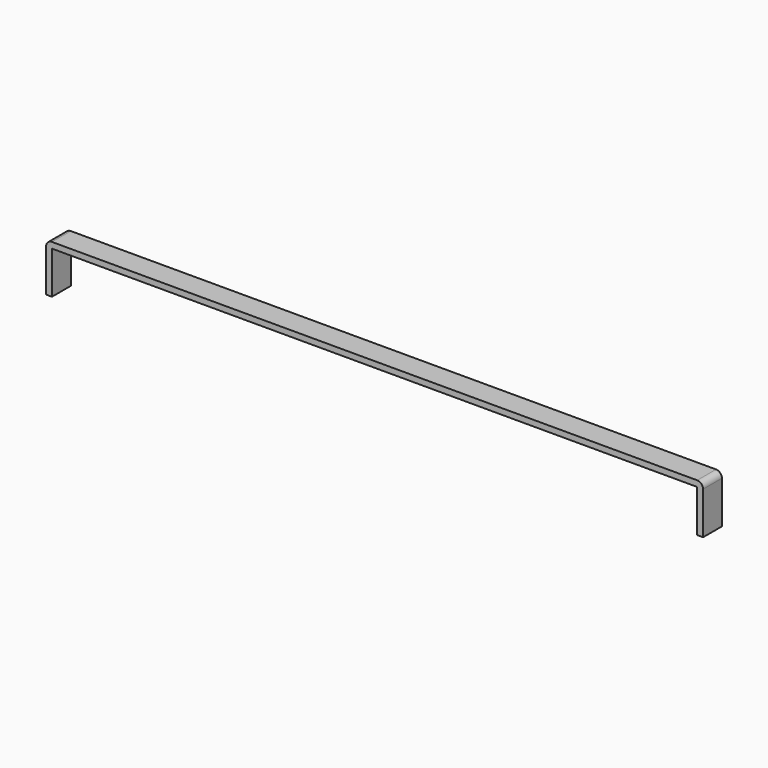
from build123d import *

# Parameters (mm, degrees)
F1_DEPTH = 1.27


with BuildPart() as f1:
    # F0 (on Front) → F1 (new body, symmetric)
    with BuildSketch(Plane.XZ):
        with BuildLine():
            Line((0, -4.572), (0, 0))
            Line((0, 0), (69.596, 0))
            Line((69.596, 0), (69.596, -4.572))
            Line((69.596, -4.572), (70.231, -4.572))
            Line((70.231, -4.572), (70.231, 0))
            ThreePointArc((70.231, 0), (70.045013, 0.449013), (69.596, 0.635))
            Line((69.596, 0.635), (0, 0.635))
            ThreePointArc((0, 0.635), (-0.449013, 0.449013), (-0.635, 0))
            Line((-0.635, 0), (-0.635, -4.572))
            Line((-0.635, -4.572), (0, -4.572))
        make_face()
    extrude(amount=F1_DEPTH, both=True)


solid = f1.part
